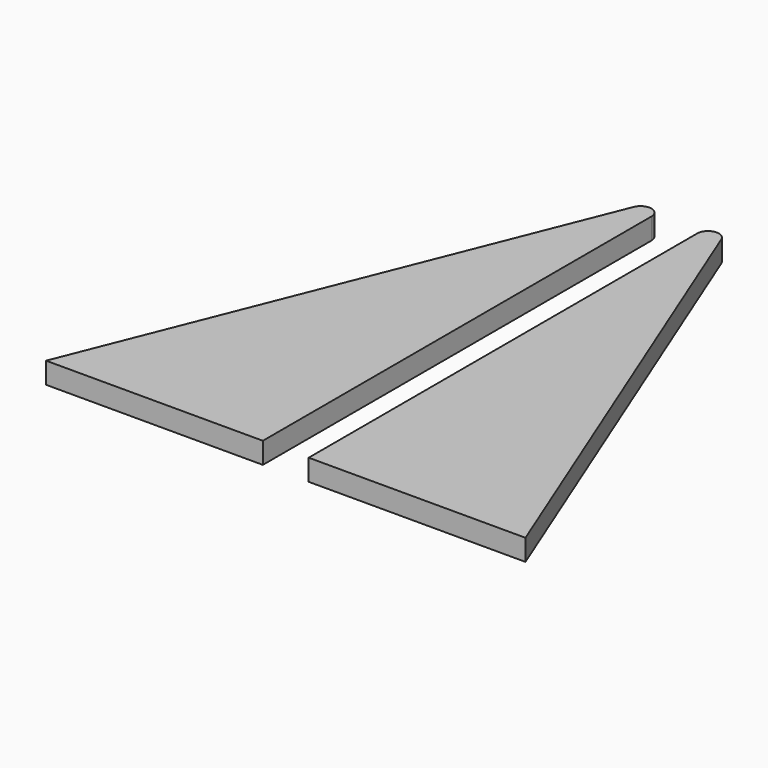
from build123d import *

# Parameters (mm, degrees)
F1_DEPTH = 1.96
F2_R     = 1
F2_2_R   = 1


with BuildPart() as f1:
    # F0 (on Top) → F1 (new body)
    with BuildSketch(Plane.XY):
        Polygon((84.2275971174, 0), (104.2275971174, 0), (84.2275971174, 50), align=None)
    extrude(amount=F1_DEPTH)

    # F2#2
    f2_2_edges = [f1.edges().sort_by_distance(p)[0] for p in [
        (84.227597, 50, 0.98),
    ]]
    fillet(f2_2_edges, radius=F2_2_R)


with BuildPart() as f1b:
    # F0 (on Top) → F1, piece 2 (new body)
    with BuildSketch(Plane.XY):
        Polygon((10, 50), (-10, 0), (10, 0), align=None)
    extrude(amount=F1_DEPTH)

    # F2
    f2_edges = [f1b.edges().sort_by_distance(p)[0] for p in [
        (10, 50, 0.98),
    ]]
    fillet(f2_edges, radius=F2_R)


with BuildPart() as f1_1:
    # F3: moved
    add(f1.part.moved(Location((-70, 0, 0))))


solid = Compound([f1b.part, f1_1.part])
